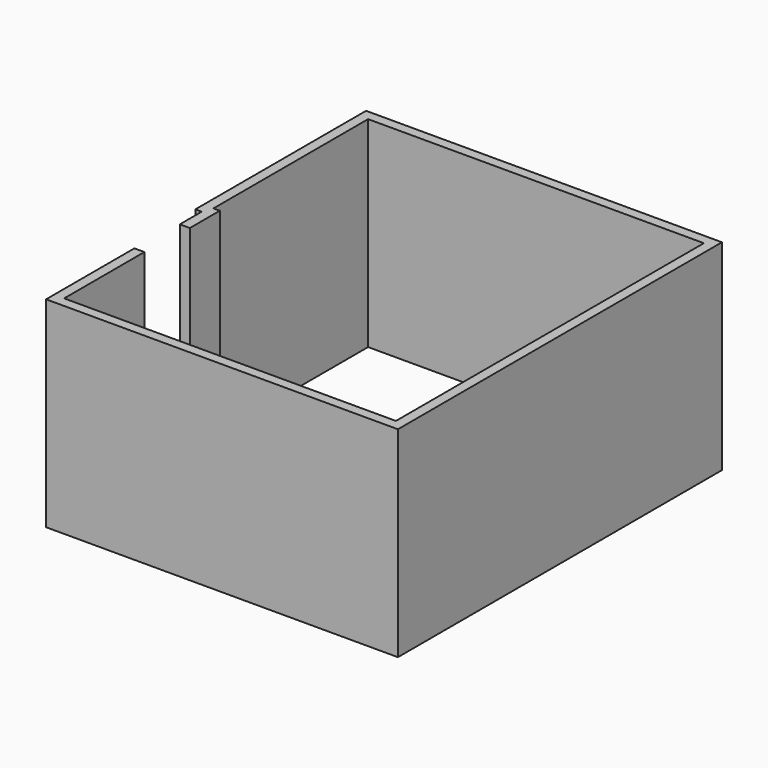
from build123d import *

# Parameters (mm, degrees)
F1_DEPTH = 3000


with BuildPart() as f1:
    # F0 (on Top) → F1 (new body)
    with BuildSketch(Plane.XY):
        Polygon((629.070739, 0), (629.070739, 2890), (5649.070739, 2890), (5649.070739, -2865), (689.070739, -2865), (689.070739, -1365), (539.070739, -1365), (539.070739, -3015), (5799.070739, -3015), (5799.070739, 3040), (479.070739, 3040), (479.070739, -150), (574.070739, -150), (574.070739, -560), (724.070739, -560), (724.070739, 0), align=None)
    extrude(amount=F1_DEPTH)


solid = f1.part
